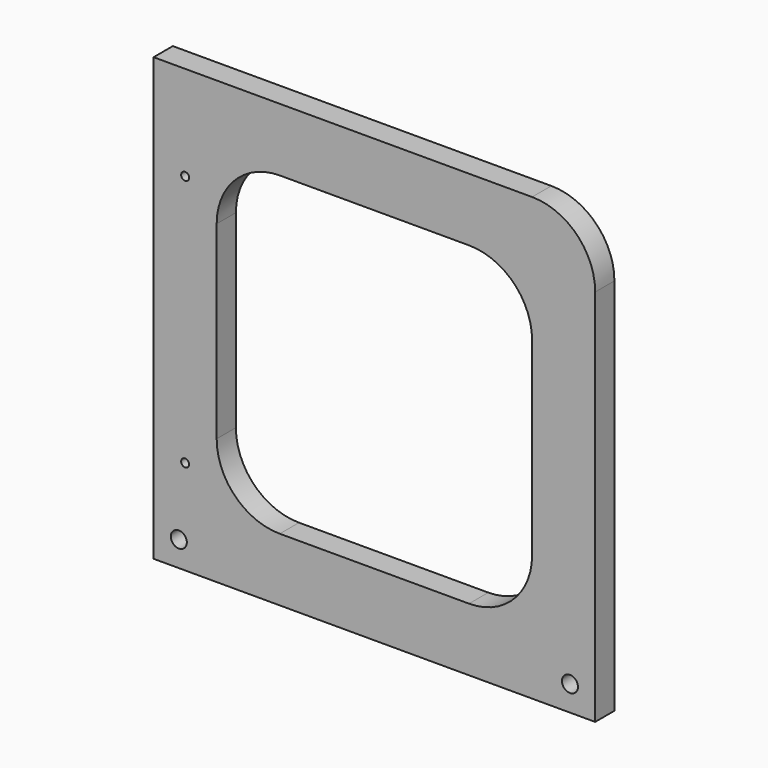
from build123d import *

# Parameters (mm, degrees)
F0_W     = 350
F0_H     = 350
F0_R     = 6.35
F0_W_2   = 250
F0_H_2   = 250
F1_DEPTH = 19.05
F2_R     = 50
F3_R     = 3.175
F4_DEPTH = 25


with BuildPart() as f1:
    # F0 (on Front) → F1 (new body)
    with BuildSketch(Plane.XZ):
        with Locations((175, 175)):
            Rectangle(F0_W, F0_H)
        with Locations((20, 20)):
            Circle(F0_R, mode=Mode.SUBTRACT)
        with Locations((330, 20)):
            Circle(F0_R, mode=Mode.SUBTRACT)
        with Locations((175, 175)):
            Rectangle(F0_W_2, F0_H_2, mode=Mode.SUBTRACT)
    extrude(amount=F1_DEPTH)

    # F2
    f2_edges = [f1.edges().sort_by_distance(p)[0] for p in [
        (300, -9.525, 50),
        (300, -9.525, 300),
        (50, -9.525, 300),
        (50, -9.525, 50),
        (350, -9.525, 350),
    ]]
    fillet(f2_edges, radius=F2_R)

    # F3 (on face) → F4 (cut)
    with BuildSketch(Plane.XZ.offset(19.05)):
        with Locations((25, 275)):
            Circle(F3_R)
        with Locations((25, 75)):
            Circle(F3_R)
    extrude(amount=-F4_DEPTH, mode=Mode.SUBTRACT)


solid = f1.part
